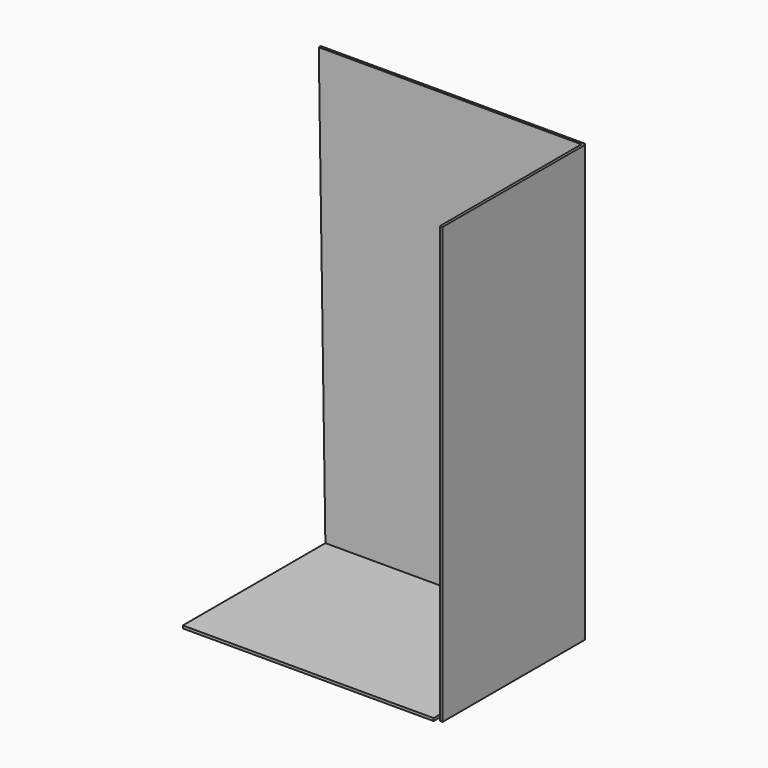
from build123d import *

# Parameters (mm, degrees)
F1_DEPTH = 1.27
F2_W     = 241.3
F2_H     = 171.45
F3_DEPTH = 1.27
F4_W     = 171.45
F4_H     = 419.1
F5_DEPTH = 1.27


with BuildPart() as f1:
    # F0 (on Front) → F1 (new body, symmetric)
    with BuildSketch(Plane.XZ):
        Polygon((-6.35, 0), (0, 419.051891), (-254, 419.051891), (-247.65, 0), align=None)
    extrude(amount=F1_DEPTH, both=True)

    # F2 (on Top) → F3 (join, symmetric)
    with BuildSketch(Plane.XY):
        with Locations((-127, -86.995)):
            Rectangle(F2_W, F2_H)
    extrude(amount=F3_DEPTH, both=True)

    # F4 (on Right) → F5 (join, symmetric)
    with BuildSketch(Plane.YZ):
        with Locations((-85.725, 209.55)):
            Rectangle(F4_W, F4_H)
    extrude(amount=F5_DEPTH, both=True)


solid = f1.part
